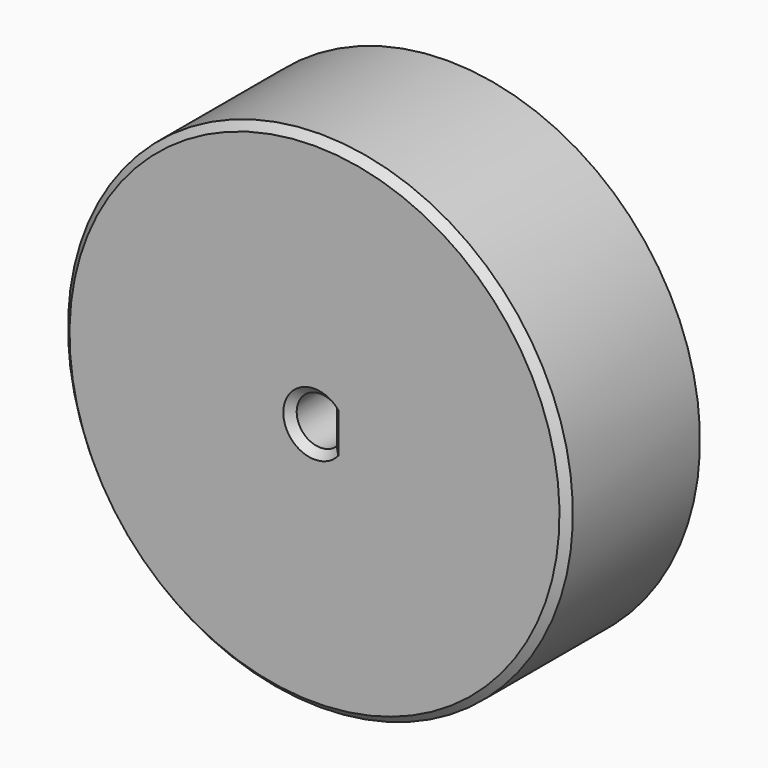
from build123d import *

# Parameters (mm, degrees)
POCKET_DEPTH = 13.001
CHAMFER_SIZE = 0.5


with BuildPart() as part:
    # Sketch → Revolution (revolve)
    with BuildSketch(Plane.YZ):
        Polygon((11.2, 17), (0, 17), (0, 0), (13, 0), (13, 3.9), (11.2, 3.9), align=None)
    revolve(axis=Axis((0, 0, 0), (0, 1, 0)))

    # Sketch001 → Pocket (cut, through all)
    with BuildSketch(Plane.XZ):
        with BuildLine():
            ThreePointArc((1.1, 1.161895), (-1.6, 0), (1.1, -1.161895))
            Line((1.1, 1.161895), (1.1, -1.161895))
        make_face()
    extrude(amount=-POCKET_DEPTH, mode=Mode.SUBTRACT)

    # Chamfer
    chamfer_edges = [part.edges().sort_by_distance(p)[0] for p in [
        (0, 0, -17),
        (1.1, 0, 0),
        (-1.6, 0, 0),
    ]]
    chamfer(chamfer_edges, length=CHAMFER_SIZE)


solid = part.part
